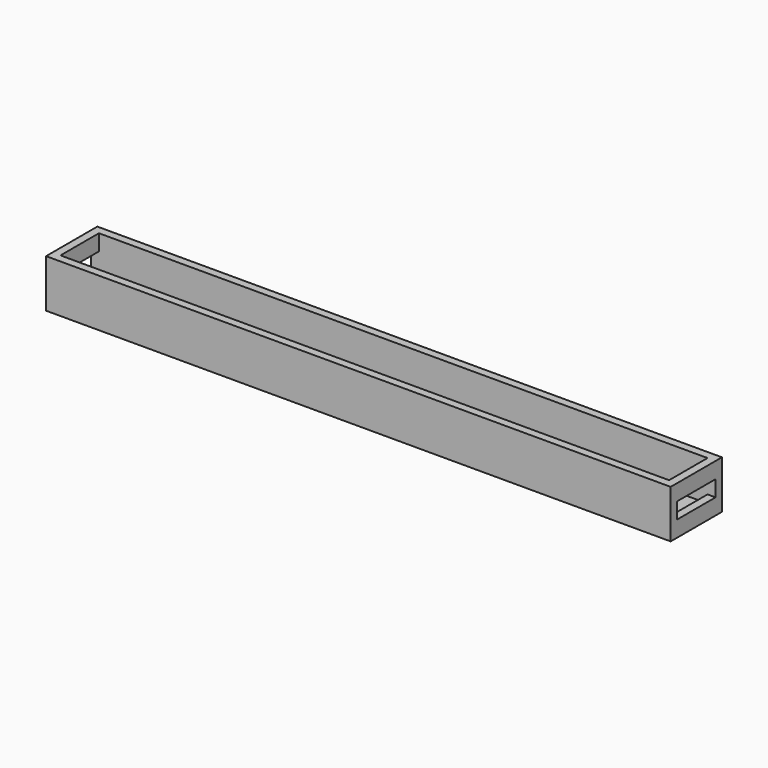
from build123d import *

# Parameters (mm, degrees)
F0_W     = 195
F0_H     = 20
F1_DEPTH = 15
F2_W     = 190
F2_H     = 15
F3_DEPTH = 12.5
F4_W     = 15
F4_H     = 5
F5_DEPTH = 195.001


with BuildPart() as f1:
    # F0 (on Top) → F1 (new body)
    with BuildSketch(Plane.XY):
        Rectangle(F0_W, F0_H)
    extrude(amount=F1_DEPTH)

    # F2 (on face) → F3 (cut)
    with BuildSketch(Plane.XY.offset(15)):
        Rectangle(F2_W, F2_H)
    extrude(amount=-F3_DEPTH, mode=Mode.SUBTRACT)

    # F4 (on face) → F5 (cut, through all)
    with BuildSketch(Plane.YZ.offset(97.5)):
        with Locations((0, 7.5)):
            Rectangle(F4_W, F4_H)
    extrude(amount=-F5_DEPTH, mode=Mode.SUBTRACT)


solid = f1.part
